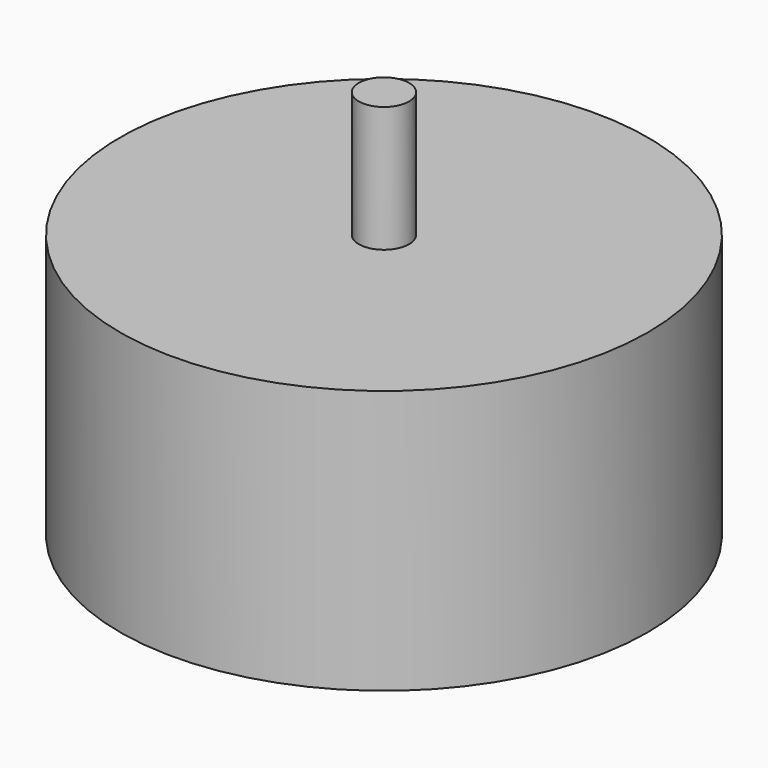
from build123d import *

# Parameters (mm, degrees)
F2_R     = 1.5
F3_DEPTH = 4


with BuildPart() as f1:
    # F0 (on Front) → F1 (revolve)
    with BuildSketch(Plane.XZ):
        Polygon((0, 31), (0, 0), (21, 0), (21, 21), (2, 21), (2, 31), align=None)
    revolve(axis=Axis((0, 0, 15.5), (0, 0, -1)))

    # F2 (on face) → F3 (cut)
    with BuildSketch(Plane(origin=(0, 0, 0), x_dir=(1, 0, 0), z_dir=(0, 0, -1))):
        with Locations((-6.717514, -6.717514)):
            Circle(F2_R)
        with Locations((-8.838835, 8.838835)):
            Circle(F2_R)
        with Locations((6.717514, 6.717514)):
            Circle(F2_R)
        with Locations((8.838835, -8.838835)):
            Circle(F2_R)
    extrude(amount=-F3_DEPTH, mode=Mode.SUBTRACT)


solid = f1.part
